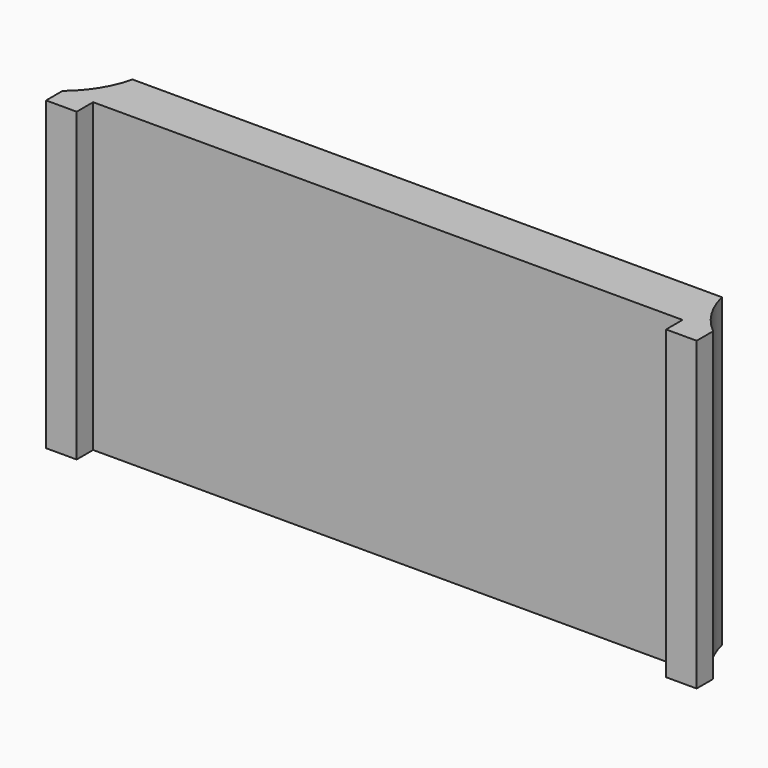
from build123d import *

# Parameters (mm, degrees)
F1_DEPTH = 25.4


with BuildPart() as f1:
    # F0 (on Top) → F1 (new body)
    with BuildSketch(Plane.XY):
        with BuildLine():
            Line((0, 1.709418), (0, 0))
            Line((0, 0), (2.536132, 0))
            Line((2.536132, 0), (2.536132, 1.70942))
            Line((2.536132, 1.70942), (51.430943, 1.70942))
            Line((51.430943, 1.70942), (51.430943, 0))
            Line((51.430943, 0), (53.967075, 0))
            Line((53.967075, 0), (53.967075, 1.709418))
            ThreePointArc((53.967075, 1.709418), (52.363333, 3.541403), (51.430943, 5.790582))
            Line((51.430943, 5.790582), (2.536132, 5.790582))
            ThreePointArc((2.536132, 5.790582), (1.603742, 3.541403), (0, 1.709418))
        make_face()
    extrude(amount=F1_DEPTH)


solid = f1.part
